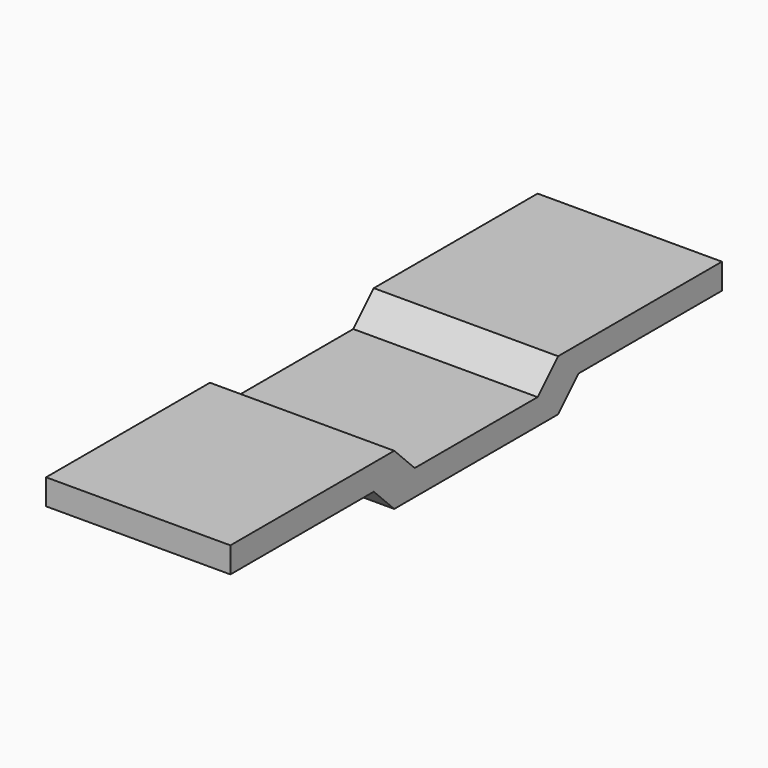
from build123d import *

# Parameters (mm, degrees)
F1_DEPTH = 11.43


with BuildPart() as f1:
    # F0 (on Right) → F1 (new body, symmetric)
    with BuildSketch(Plane.YZ):
        Polygon((-15.875, 1.5875), (-12.7, 1.5875), (-12.7, 4.7625), (-38.1, 4.7625), (-38.1, 1.5875), align=None)
        Polygon((9.525, 1.5875), (12.7, 1.5875), (12.7, 4.7625), align=None)
        Polygon((-12.7, 1.5875), (-9.525, 1.5875), (-12.7, 4.7625), align=None)
        Polygon((15.875, 1.5875), (12.7, 1.5875), (12.7, -1.5875), align=None)
        Polygon((-15.875, 1.5875), (-12.7, -1.5875), (-12.7, 1.5875), align=None)
        Polygon((12.7, 4.7625), (12.7, 1.5875), (15.875, 1.5875), (38.1, 1.5875), (38.1, 4.7625), align=None)
        Polygon((12.7, -1.5875), (12.7, 1.5875), (9.525, 1.5875), (-9.525, 1.5875), (-12.7, 1.5875), (-12.7, -1.5875), align=None)
    extrude(amount=F1_DEPTH, both=True)


solid = f1.part
